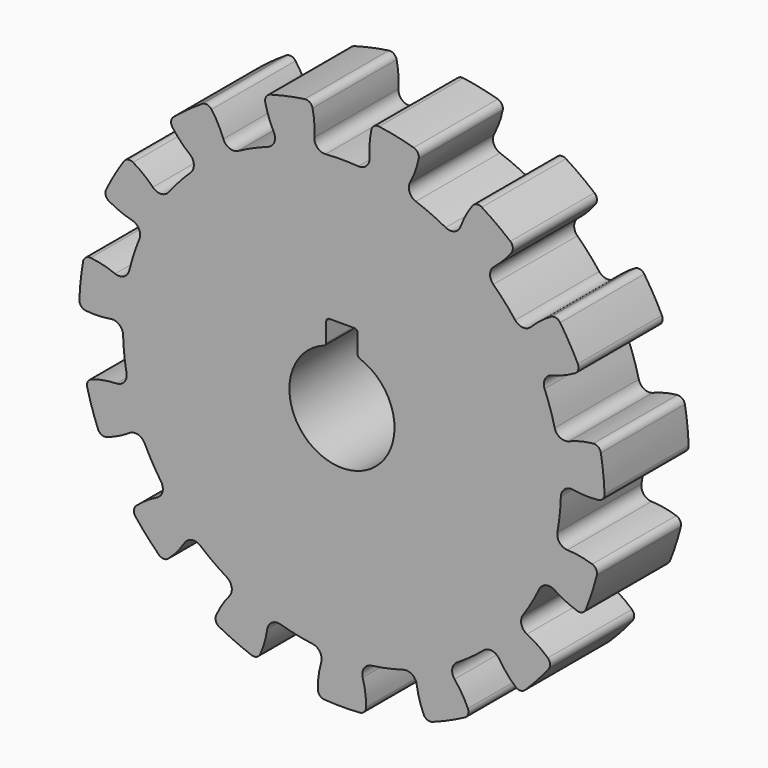
from build123d import *

# Parameters (mm, degrees)
F0_R     = 75
F1_DEPTH = 30
F3_DEPTH = 31
F4_R     = 2


with BuildPart() as f1:
    # F0 (on Front) → F1 (new body)
    with BuildSketch(Plane.XZ):
        Circle(F0_R)
        with BuildLine():
            ThreePointArc((5.15625, 14.0859180012), (0, -15), (-5.15625, 14.0859180012))
            ThreePointArc((-5.15625, 14.0859180012), (-4.6803201845, 14.4521572394), (-4.5, 15.0249792013))
            Line((-4.5, 15.0249792013), (-4.5, 20.3090880213))
            ThreePointArc((-4.5, 20.3090880213), (-4.2071067812, 21.0161948024), (-3.5, 21.3090880213))
            Line((-3.5, 21.3090880213), (3.5, 21.3090880213))
            ThreePointArc((3.5, 21.3090880213), (4.2071067812, 21.0161948024), (4.5, 20.3090880213))
            Line((4.5, 20.3090880213), (4.5, 15.0249792013))
            ThreePointArc((4.5, 15.0249792013), (4.6803201845, 14.4521572394), (5.15625, 14.0859180012))
        make_face(mode=Mode.SUBTRACT)
    extrude(amount=F1_DEPTH)

    # F2 (on face) → F3 (cut)
    with BuildSketch(Plane.XZ.offset(30)):
        with BuildLine():
            ThreePointArc((7.8802877603, 65.5276960307), (9.6346885327, 76.7107160649), (16.0930583886, 86.007345452))
            ThreePointArc((16.0930583886, 86.007345452), (0, 87.5), (-16.0930583886, 86.007345452))
            ThreePointArc((-16.0930583886, 86.007345452), (-9.6346885327, 76.7107160649), (-7.8802877603, 65.5276960307))
            ThreePointArc((-7.8802877603, 65.5276960307), (-7.0041799922, 63.1912658308), (-4.6638059882, 62.3257484007))
            ThreePointArc((-4.6638059882, 62.3257484007), (0, 62.5), (4.6638059882, 62.3257484007))
            ThreePointArc((4.6638059882, 62.3257484007), (7.0041799922, 63.1912658308), (7.8802877603, 65.5276960307))
        make_face()
        with BuildLine():
            ThreePointArc((-19.4535140236, 63.0677308487), (-22.3993331954, 73.9975070845), (-20.2805985785, 85.1172563074))
            ThreePointArc((-20.2805985785, 85.1172563074), (-35.5894562691, 79.9352275437), (-49.6840793595, 72.0259832158))
            ThreePointArc((-49.6840793595, 72.0259832158), (-40.002785085, 66.1599453428), (-33.8515162004, 56.6573272685))
            ThreePointArc((-33.8515162004, 56.6573272685), (-32.1008401521, 54.8792372049), (-29.6107644575, 55.040463554))
            ThreePointArc((-29.6107644575, 55.040463554), (-25.4210401922, 57.0965911027), (-21.0895669058, 58.8343451372))
            ThreePointArc((-21.0895669058, 58.8343451372), (-19.3035665193, 60.5769505199), (-19.4535140236, 63.0677308487))
        make_face()
        with BuildLine():
            ThreePointArc((-43.4236265033, 49.7027820507), (-50.5603067224, 58.4894568829), (-53.1475558079, 69.5096202812))
            ThreePointArc((-53.1475558079, 69.5096202812), (-65.0251722293, 58.5489280564), (-74.6842716435, 45.590674146))
            ThreePointArc((-74.6842716435, 45.590674146), (-63.4540366823, 44.1695190266), (-53.969509958, 37.9903919059))
            ThreePointArc((-53.969509958, 37.9903919059), (-51.6469734227, 37.078089904), (-49.4377527468, 38.2381825319))
            ThreePointArc((-49.4377527468, 38.2381825319), (-46.4465515923, 41.8206628974), (-43.1963620891, 45.1699491063))
            ThreePointArc((-43.1963620891, 45.1699491063), (-42.2735510123, 47.4883301398), (-43.4236265033, 49.7027820507))
        make_face()
        with BuildLine():
            ThreePointArc((-59.8853994693, 27.7437707004), (-69.9789438911, 32.8680482262), (-76.8248178078, 41.8831394334))
            ThreePointArc((-76.8248178078, 41.8831394334), (-83.2174451758, 27.0389870078), (-86.7708748749, 11.2723233381))
            ThreePointArc((-86.7708748749, 11.2723233381), (-75.9335088753, 14.5417816032), (-64.7556851463, 12.754572651))
            ThreePointArc((-64.7556851463, 12.754572651), (-62.2628757905, 12.8658040149), (-60.7165044583, 14.8241723671))
            ThreePointArc((-60.7165044583, 14.8241723671), (-59.4410322684, 19.3135621484), (-57.8341138406, 23.6952585188))
            ThreePointArc((-57.8341138406, 23.6952585188), (-57.934054492, 26.1885460607), (-59.8853994693, 27.7437707004))
        make_face()
        with BuildLine():
            ThreePointArc((-65.9924428252, 0.9876093519), (-77.2975859223, 1.5634554344), (-87.2183708772, 7.0146832811))
            ThreePointArc((-87.2183708772, 7.0146832811), (-87.0206658447, -9.1462405359), (-83.8540055519, -24.9951145808))
            ThreePointArc((-83.8540055519, -24.9951145808), (-75.2833875496, -17.6003619672), (-64.3450140858, -14.686628087))
            ThreePointArc((-64.3450140858, -14.686628087), (-62.1129612937, -13.5710962706), (-61.4968209568, -11.1530718734))
            ThreePointArc((-61.4968209568, -11.1530718734), (-62.1576184605, -6.5330289542), (-62.4718219026, -1.8765575313))
            ThreePointArc((-62.4718219026, -1.8765575313), (-63.5772336358, 0.3605244521), (-65.9924428252, 0.9876093519))
        make_face()
        with BuildLine():
            ThreePointArc((-60.6887932942, -25.9393186258), (-71.2507731211, -30.0114730056), (-82.5310752678, -29.0666753369))
            ThreePointArc((-82.5310752678, -29.0666753369), (-75.7772228311, -43.75), (-66.4380168792, -56.9406701151))
            ThreePointArc((-66.4380168792, -56.9406701151), (-61.6160845884, -46.6992430593), (-52.8085055339, -39.5883774049))
            ThreePointArc((-52.8085055339, -39.5883774049), (-51.2231515106, -37.6614307213), (-51.6437784308, -35.2018486644))
            ThreePointArc((-51.6437784308, -35.2018486644), (-54.1265877365, -31.25), (-56.307584419, -27.1238997362))
            ThreePointArc((-56.307584419, -27.1238997362), (-58.2273315028, -25.5298351095), (-60.6887932942, -25.9393186258))
        make_face()
        with BuildLine():
            ThreePointArc((-44.8915000622, -48.3811027617), (-52.8840543542, -56.3971451173), (-63.5734069734, -60.1221417266))
            ThreePointArc((-63.5734069734, -60.1221417266), (-51.4312095756, -70.7889870078), (-37.5342915176, -79.0406664969))
            ThreePointArc((-37.5342915176, -79.0406664969), (-37.2948008373, -67.7234007771), (-32.1409266249, -57.6449366204))
            ThreePointArc((-32.1409266249, -57.6449366204), (-31.4763934837, -55.239761657), (-32.8610574451, -53.1639060227))
            ThreePointArc((-32.8610574451, -53.1639060227), (-36.7365782683, -50.5635621484), (-40.4072540509, -47.6812732639))
            ThreePointArc((-40.4072540509, -47.6812732639), (-42.8093947744, -47.0058542493), (-44.8915000622, -48.3811027617))
        make_face()
        with BuildLine():
            ThreePointArc((-21.332058643, -62.4573547016), (-25.373202153, -73.0312384861), (-33.623319067, -80.7819436194))
            ThreePointArc((-33.623319067, -80.7819436194), (-18.1922729466, -85.5879150642), (-2.1405461644, -87.4738135794))
            ThreePointArc((-2.1405461644, -87.4738135794), (-6.5249072088, -77.0375672528), (-5.9158895113, -65.7341626064))
            ThreePointArc((-5.9158895113, -65.7341626064), (-6.2870810693, -63.2666359647), (-8.3963610938, -61.9334410507))
            ThreePointArc((-8.3963610938, -61.9334410507), (-12.9944806761, -61.1342250459), (-17.5201423691, -59.9941214734))
            ThreePointArc((-17.5201423691, -59.9941214734), (-19.9893247783, -60.3541341547), (-21.332058643, -62.4573547016))
        make_face()
        with BuildLine():
            ThreePointArc((5.9158895113, -65.7341626064), (6.5249072088, -77.0375672528), (2.1405461644, -87.4738135794))
            ThreePointArc((2.1405461644, -87.4738135794), (18.1922729466, -85.5879150642), (33.623319067, -80.7819436194))
            ThreePointArc((33.623319067, -80.7819436194), (25.373202153, -73.0312384861), (21.332058643, -62.4573547016))
            ThreePointArc((21.332058643, -62.4573547016), (19.9893247783, -60.3541341547), (17.5201423691, -59.9941214734))
            ThreePointArc((17.5201423691, -59.9941214734), (12.9944806761, -61.1342250459), (8.3963610938, -61.9334410507))
            ThreePointArc((8.3963610938, -61.9334410507), (6.2870810693, -63.2666359647), (5.9158895113, -65.7341626064))
        make_face()
        with BuildLine():
            ThreePointArc((32.1409266249, -57.6449366204), (37.2948008373, -67.7234007771), (37.5342915176, -79.0406664969))
            ThreePointArc((37.5342915176, -79.0406664969), (51.4312095756, -70.7889870078), (63.5734069734, -60.1221417266))
            ThreePointArc((63.5734069734, -60.1221417266), (52.8840543542, -56.3971451173), (44.8915000622, -48.3811027617))
            ThreePointArc((44.8915000622, -48.3811027617), (42.8093947744, -47.0058542493), (40.4072540509, -47.6812732639))
            ThreePointArc((40.4072540509, -47.6812732639), (36.7365782683, -50.5635621484), (32.8610574451, -53.1639060227))
            ThreePointArc((32.8610574451, -53.1639060227), (31.4763934837, -55.239761657), (32.1409266249, -57.6449366204))
        make_face()
        with BuildLine():
            ThreePointArc((52.8085055339, -39.5883774049), (61.6160845884, -46.6992430593), (66.4380168792, -56.9406701151))
            ThreePointArc((66.4380168792, -56.9406701151), (75.7772228311, -43.75), (82.5310752678, -29.0666753369))
            ThreePointArc((82.5310752678, -29.0666753369), (71.2507731211, -30.0114730056), (60.6887932942, -25.9393186258))
            ThreePointArc((60.6887932942, -25.9393186258), (58.2273315028, -25.5298351095), (56.307584419, -27.1238997362))
            ThreePointArc((56.307584419, -27.1238997362), (54.1265877365, -31.25), (51.6437784308, -35.2018486644))
            ThreePointArc((51.6437784308, -35.2018486644), (51.2231515106, -37.6614307213), (52.8085055339, -39.5883774049))
        make_face()
        with BuildLine():
            ThreePointArc((64.3450140858, -14.686628087), (75.2833875496, -17.6003619672), (83.8540055519, -24.9951145808))
            ThreePointArc((83.8540055519, -24.9951145808), (87.0206658447, -9.1462405359), (87.2183708772, 7.0146832811))
            ThreePointArc((87.2183708772, 7.0146832811), (77.2975859223, 1.5634554344), (65.9924428252, 0.9876093519))
            ThreePointArc((65.9924428252, 0.9876093519), (63.5772336358, 0.3605244521), (62.4718219026, -1.8765575313))
            ThreePointArc((62.4718219026, -1.8765575313), (62.1576184605, -6.5330289542), (61.4968209568, -11.1530718734))
            ThreePointArc((61.4968209568, -11.1530718734), (62.1129612937, -13.5710962706), (64.3450140858, -14.686628087))
        make_face()
        with BuildLine():
            ThreePointArc((64.7556851463, 12.754572651), (75.9335088753, 14.5417816032), (86.7708748749, 11.2723233381))
            ThreePointArc((86.7708748749, 11.2723233381), (83.2174451758, 27.0389870078), (76.8248178078, 41.8831394334))
            ThreePointArc((76.8248178078, 41.8831394334), (69.9789438911, 32.8680482262), (59.8853994693, 27.7437707004))
            ThreePointArc((59.8853994693, 27.7437707004), (57.934054492, 26.1885460607), (57.8341138406, 23.6952585188))
            ThreePointArc((57.8341138406, 23.6952585188), (59.4410322684, 19.3135621484), (60.7165044583, 14.8241723671))
            ThreePointArc((60.7165044583, 14.8241723671), (62.2628757905, 12.8658040149), (64.7556851463, 12.754572651))
        make_face()
        with BuildLine():
            ThreePointArc((53.969509958, 37.9903919059), (63.4540366823, 44.1695190266), (74.6842716435, 45.590674146))
            ThreePointArc((74.6842716435, 45.590674146), (65.0251722293, 58.5489280564), (53.1475558079, 69.5096202812))
            ThreePointArc((53.1475558079, 69.5096202812), (50.5603067224, 58.4894568829), (43.4236265033, 49.7027820507))
            ThreePointArc((43.4236265033, 49.7027820507), (42.2735510123, 47.4883301398), (43.1963620891, 45.1699491063))
            ThreePointArc((43.1963620891, 45.1699491063), (46.4465515923, 41.8206628974), (49.4377527468, 38.2381825319))
            ThreePointArc((49.4377527468, 38.2381825319), (51.6469734227, 37.078089904), (53.969509958, 37.9903919059))
        make_face()
        with BuildLine():
            ThreePointArc((33.8515162004, 56.6573272685), (40.002785085, 66.1599453428), (49.6840793595, 72.0259832158))
            ThreePointArc((49.6840793595, 72.0259832158), (35.5894562691, 79.9352275437), (20.2805985785, 85.1172563074))
            ThreePointArc((20.2805985785, 85.1172563074), (22.3993331954, 73.9975070845), (19.4535140236, 63.0677308487))
            ThreePointArc((19.4535140236, 63.0677308487), (19.3035665193, 60.5769505199), (21.0895669058, 58.8343451372))
            ThreePointArc((21.0895669058, 58.8343451372), (25.4210401922, 57.0965911027), (29.6107644575, 55.040463554))
            ThreePointArc((29.6107644575, 55.040463554), (32.1008401521, 54.8792372049), (33.8515162004, 56.6573272685))
        make_face()
    extrude(amount=-F3_DEPTH, mode=Mode.SUBTRACT)

    # F4
    f4_edges = [f1.edges().sort_by_distance(p)[0] for p in [
        (68.092926, -15, 31.438089),
        (61.272646, -15, 43.25116),
        (49.418961, -15, 56.416011),
        (38.383516, -15, 64.433731),
        (22.200008, -15, 71.639093),
        (8.857528, -15, 74.475125),
        (-8.857528, -15, 74.475125),
        (-22.200008, -15, 71.639093),
        (-38.383516, -15, 64.433731),
        (-49.418961, -15, 56.416011),
        (-61.272646, -15, 43.25116),
        (-68.092926, -15, 31.438089),
        (-73.567179, -15, 14.59007),
        (-74.993006, -15, 1.024235),
        (-73.141278, -15, -16.593775),
        (-68.926114, -15, -29.566718),
        (-60.068586, -15, -44.908406),
        (-50.94127, -15, -55.045317),
        (-36.60949, -15, -65.457966),
        (-24.148218, -15, -71.006081),
        (-6.82028, -15, -74.689248),
        (6.82028, -15, -74.689248),
        (24.148218, -15, -71.006081),
        (36.60949, -15, -65.457966),
        (50.94127, -15, -55.045317),
        (60.068586, -15, -44.908406),
        (68.926114, -15, -29.566718),
        (73.141278, -15, -16.593775),
        (73.567179, -15, 14.59007),
        (74.993006, -15, 1.024235),
    ]]
    fillet(f4_edges, radius=F4_R)


solid = f1.part
